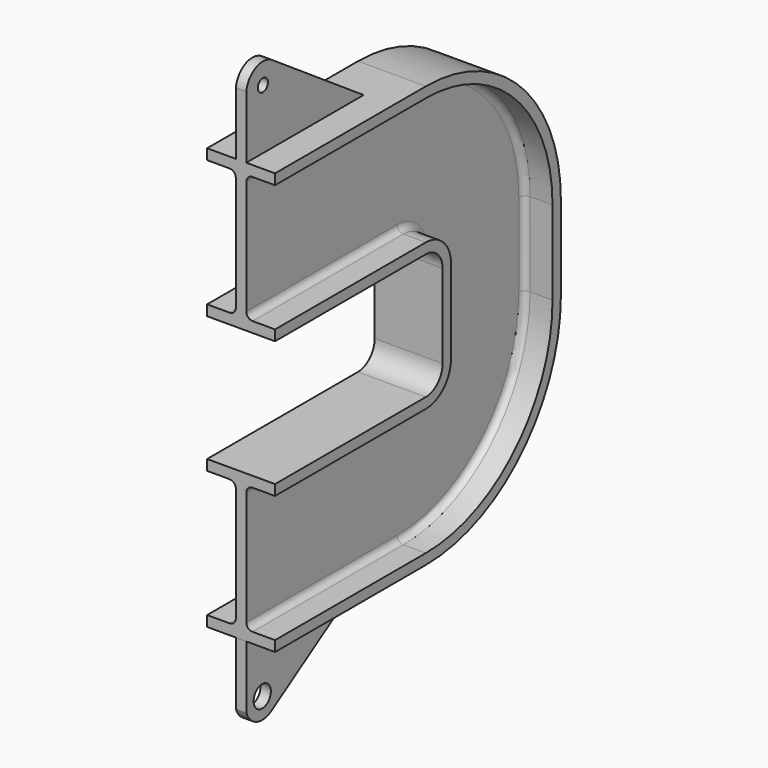
from build123d import *

# Parameters (mm, degrees)
F3_R     = 2.9977693339
F4_DEPTH = 2.5
F5_R     = 5.1348432566
F6_DEPTH = 2.5


with BuildPart() as f2:
    # F2: sweep along a path in F1
    with BuildLine(Plane.YZ) as f2_path:
        Line((0, -35.2961234748), (90, -35.2961234748))
        ThreePointArc((90, -35.2961234748), (97.0710678119, -38.225055663), (100, -45.2961234748))
        Line((100, -45.2961234748), (100, -85.2961234748))
        ThreePointArc((100, -85.2961234748), (97.0710678119, -92.3671912867), (90, -95.2961234748))
        Line((90, -95.2961234748), (0, -95.2961234748))
    # F0 (on Front) → F2 (sweep)
    with BuildSketch(Plane.XZ):
        with BuildLine():
            Line((16.2149220705, 35.2961234748), (0, 35.2961234748))
            Line((0, 35.2961234748), (-16.2149220705, 35.2961234748))
            Line((-16.2149220705, 35.2961234748), (-16.2149220705, 30.2961234748))
            Line((-16.2149220705, 30.2961234748), (-5.5, 30.2961234748))
            ThreePointArc((-5.5, 30.2961234748), (-3.3786796564, 29.4174438184), (-2.5, 27.2961234748))
            Line((-2.5, 27.2961234748), (-2.5, 0))
            Line((-2.5, 0), (-2.5, -27.2961234748))
            ThreePointArc((-2.5, -27.2961234748), (-3.3786796564, -29.4174438184), (-5.5, -30.2961234748))
            Line((-5.5, -30.2961234748), (-16.2149220705, -30.2961234748))
            Line((-16.2149220705, -30.2961234748), (-16.2149220705, -35.2961234748))
            Line((-16.2149220705, -35.2961234748), (0, -35.2961234748))
            Line((0, -35.2961234748), (16.2149220705, -35.2961234748))
            Line((16.2149220705, -35.2961234748), (16.2149220705, -30.2961234748))
            Line((16.2149220705, -30.2961234748), (5.5, -30.2961234748))
            ThreePointArc((5.5, -30.2961234748), (3.3786796564, -29.4174438184), (2.5, -27.2961234748))
            Line((2.5, -27.2961234748), (2.5, 0))
            Line((2.5, 0), (2.5, 27.2961234748))
            ThreePointArc((2.5, 27.2961234748), (3.3786796564, 29.4174438184), (5.5, 30.2961234748))
            Line((5.5, 30.2961234748), (16.2149220705, 30.2961234748))
            Line((16.2149220705, 30.2961234748), (16.2149220705, 35.2961234748))
        make_face()
    sweep(path=f2_path.line)

    # F3 (on Right) → F4 (join, symmetric)
    with BuildSketch(Plane.YZ):
        with BuildLine():
            Line((0, 65.2961234748), (0, 35.2961234748))
            Line((0, 35.2961234748), (70, 35.2961234748))
            Line((70, 35.2961234748), (15.5028312053, 72.1644029996))
            ThreePointArc((15.5028312053, 72.1644029996), (5.8488593767, 73.0246440824), (0, 65.2961234748))
        make_face()
        with Locations((9.8994718868, 63.8817485732)):
            Circle(F3_R, mode=Mode.SUBTRACT)
    extrude(amount=F4_DEPTH, both=True)

    # F5 (on Right) → F6 (join, symmetric)
    with BuildSketch(Plane.YZ):
        with BuildLine():
            Line((70, -165.8883704245), (0, -165.8883704245))
            Line((0, -165.8883704245), (0, -195.8883704245))
            ThreePointArc((0, -195.8883704245), (6.1459122057, -202.2103795466), (14.9061395374, -201.2111532078))
            Line((14.9061395374, -201.2111532078), (70, -165.8883704245))
        make_face()
        with Locations((9.508806352, -192.7927926497)):
            Circle(F5_R, mode=Mode.SUBTRACT)
    extrude(amount=F6_DEPTH, both=True)


solid = f2.part
